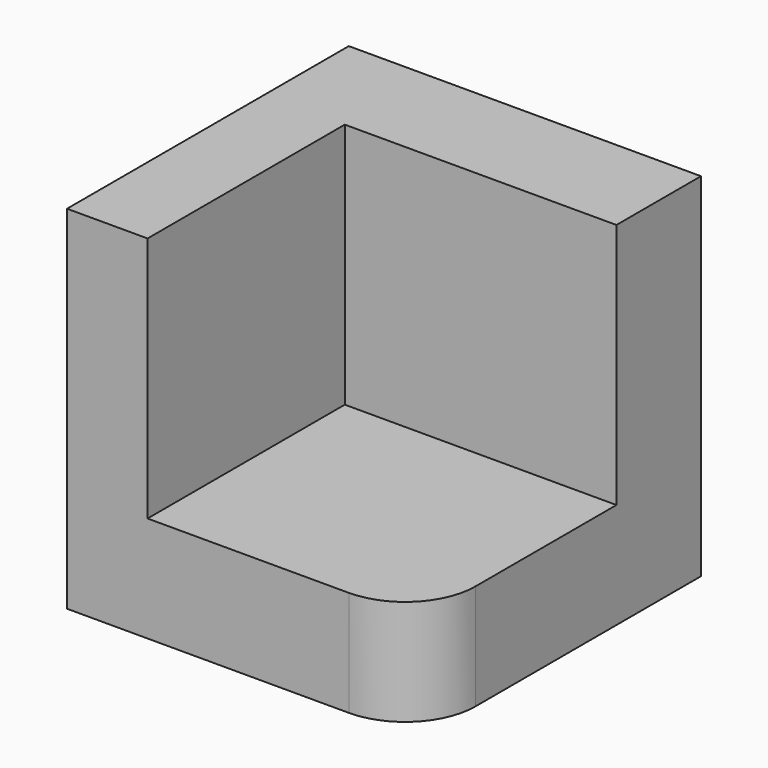
from build123d import *

# Parameters (mm, degrees)
F1_W     = 500
F1_H     = 500
F2_DEPTH = 500
F3_W     = 385.679454
F3_H     = 350
F4_DEPTH = 350
F5_R     = 100


with BuildPart() as f2:
    # F1 (on face) → F2 (new body)
    with BuildSketch(Plane.XZ):
        with Locations((-250, 250)):
            Rectangle(F1_W, F1_H)
    extrude(amount=F2_DEPTH)

    # F3 (on face) → F4 (cut)
    with BuildSketch(Plane.XZ.offset(500)):
        with Locations((-192.839727, 325)):
            Rectangle(F3_W, F3_H)
    extrude(amount=-F4_DEPTH, mode=Mode.SUBTRACT)

    # F5
    f5_edges = [f2.edges().sort_by_distance(p)[0] for p in [
        (0, -500, 75),
    ]]
    fillet(f5_edges, radius=F5_R)


solid = f2.part
